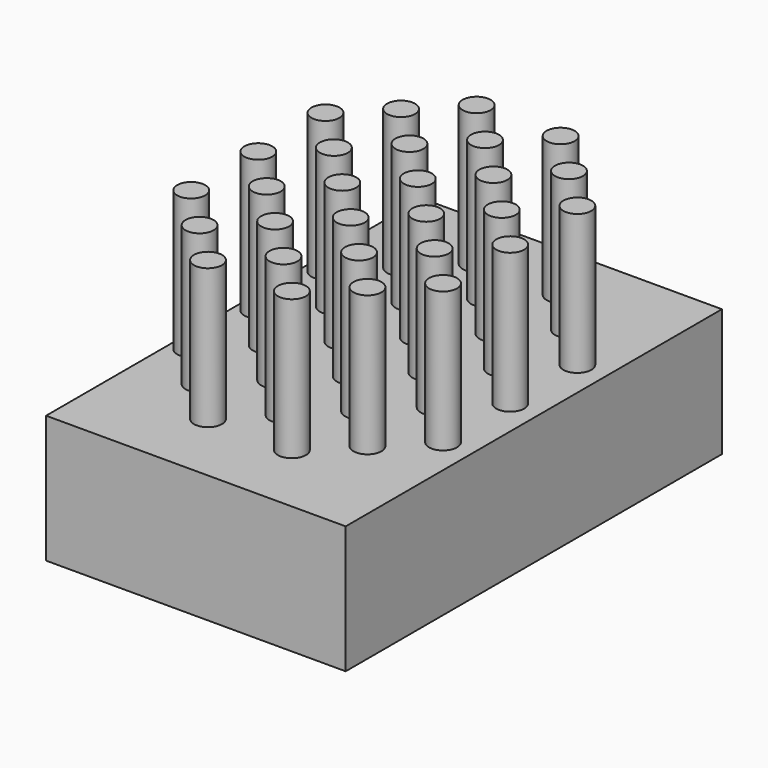
from build123d import *

# Parameters (mm, degrees)
F0_R     = 2.5
F1_DEPTH = 25
F2_W     = 53.529413
F2_H     = 84.025737
F3_DEPTH = 22.8


with BuildPart() as f1:
    # F0 (on Top) → F1 (new body)
    with BuildSketch(Plane.XY):
        with Locations((22.5, 60.855222)):
            Circle(F0_R)
        with Locations((30, 53.355222)):
            Circle(F0_R)
        with Locations((30, 23.355222)):
            Circle(F0_R)
        with Locations((30, 8.355222)):
            Circle(F0_R)
        with Locations((22.5, 30.855222)):
            Circle(F0_R)
        with Locations((37.5, 60.855222)):
            Circle(F0_R)
        with Locations((22.5, 15.855222)):
            Circle(F0_R)
        with Locations((22.5, 0.855222)):
            Circle(F0_R)
        with Locations((37.5, 45.855222)):
            Circle(F0_R)
        with Locations((37.5, 15.855222)):
            Circle(F0_R)
        with Locations((22.5, 45.855222)):
            Circle(F0_R)
        with Locations((30, 38.355222)):
            Circle(F0_R)
        with Locations((37.5, 30.855222)):
            Circle(F0_R)
        with Locations((45, 53.355222)):
            Circle(F0_R)
        with Locations((45, 38.355222)):
            Circle(F0_R)
        with Locations((45, 23.355222)):
            Circle(F0_R)
        with Locations((37.5, 0.855222)):
            Circle(F0_R)
        with Locations((45, 8.355222)):
            Circle(F0_R)
        with Locations((52.5, 15.855222)):
            Circle(F0_R)
        with Locations((52.5, 30.855222)):
            Circle(F0_R)
        with Locations((52.5, 45.855222)):
            Circle(F0_R)
        with Locations((15, 53.355222)):
            Circle(F0_R)
        with Locations((15, 38.355222)):
            Circle(F0_R)
        with Locations((15, 23.355222)):
            Circle(F0_R)
        with Locations((15, 8.355222)):
            Circle(F0_R)
        with Locations((7.5, 15.855222)):
            Circle(F0_R)
        with Locations((7.5, 30.855222)):
            Circle(F0_R)
        with Locations((7.5, 45.855222)):
            Circle(F0_R)
    extrude(amount=F1_DEPTH)

    # F2 (on Top) → F3 (join)
    with BuildSketch(Plane.XY):
        with Locations((31.011025, 29.531249)):
            Rectangle(F2_W, F2_H)
    extrude(amount=-F3_DEPTH)


solid = f1.part
